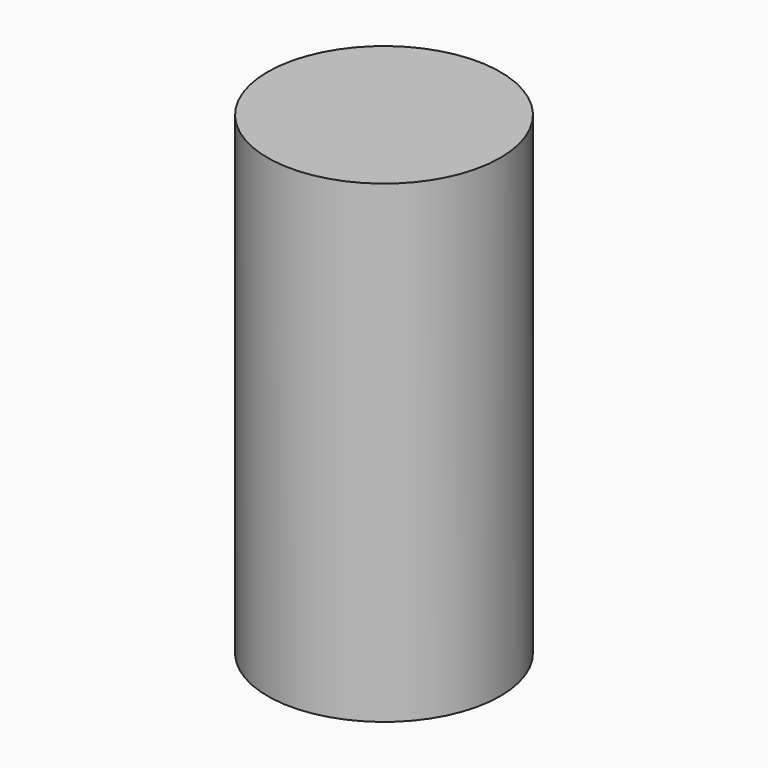
from build123d import *

# Parameters (mm, degrees)
CYLINDER_R     = 3.683
CYLINDER_DEPTH = 15


with BuildPart() as part:
    # Cylinder → Cylinder (new body)
    with BuildSketch(Plane.XY.offset(-2.5)):
        Circle(CYLINDER_R)
    extrude(amount=CYLINDER_DEPTH)


solid = part.part
